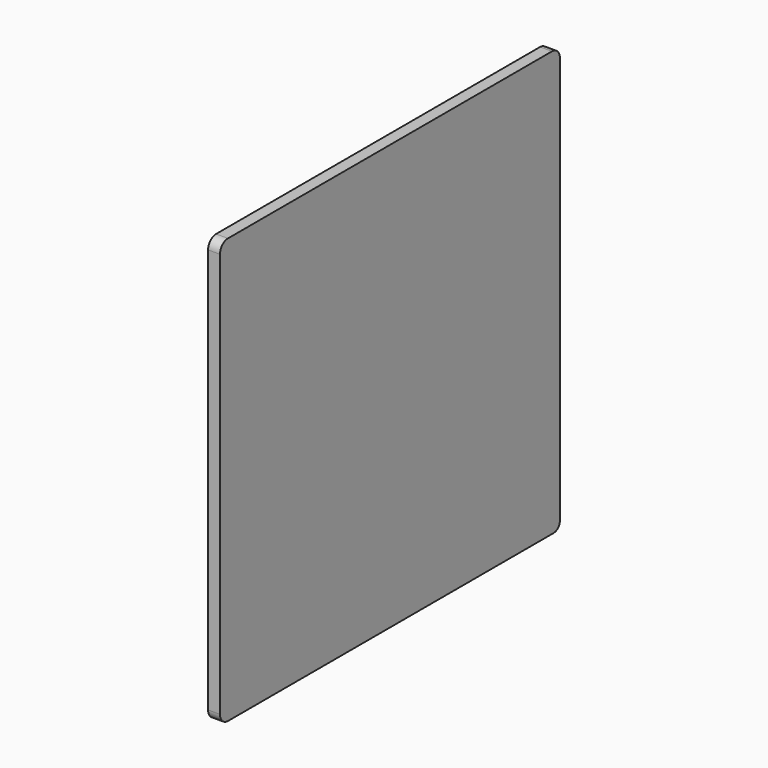
from build123d import *

# Parameters (mm, degrees)
F1_DEPTH = 9.525


with BuildPart() as f1:
    # F0 (on Right) → F1 (new body)
    with BuildSketch(Plane.YZ):
        with BuildLine():
            ThreePointArc((0, 7.95), (2.328501, 2.328501), (7.95, 0))
            Line((7.95, 0), (333.35, 0))
            ThreePointArc((333.35, 0), (337.840128, 1.859872), (339.7, 6.35))
            Line((339.7, 6.35), (339.7, 331.75))
            ThreePointArc((339.7, 331.75), (337.371499, 337.371499), (331.75, 339.7))
            Line((331.75, 339.7), (7.95, 339.7))
            ThreePointArc((7.95, 339.7), (2.328501, 337.371499), (0, 331.75))
            Line((0, 331.75), (0, 7.95))
        make_face()
    extrude(amount=F1_DEPTH)


solid = f1.part
